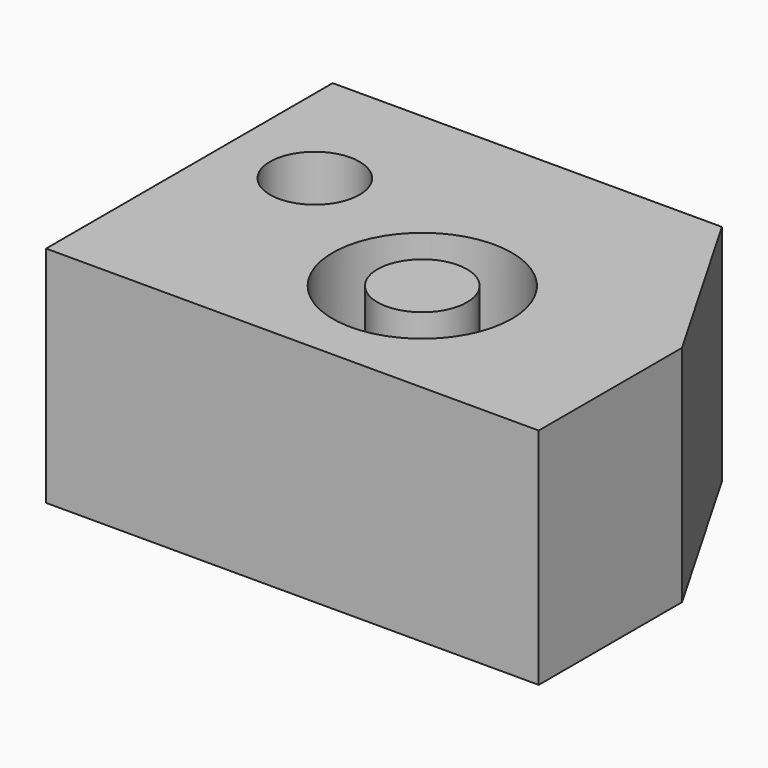
from build123d import *

# Parameters (mm, degrees)
F0_R     = 5
F1_DEPTH = 25
F0_R_2   = 10


with BuildPart() as f1:
    # F0 (on Top) → F1 (new body)
    with BuildSketch(Plane.XY):
        Circle(F0_R)
    extrude(amount=F1_DEPTH)


with BuildPart() as f1b:
    # F0 (on Top) → F1, piece 2 (new body)
    with BuildSketch(Plane.XY):
        Polygon((-30, -15), (25, -15), (25, 5), (13.4529946162, 25), (-20, 25), (-30, 25), (-30, 10), align=None)
        Circle(F0_R_2, mode=Mode.SUBTRACT)
        with Locations((-20, 10)):
            Circle(F0_R, mode=Mode.SUBTRACT)
    extrude(amount=F1_DEPTH)


solid = Compound([f1.part, f1b.part])
